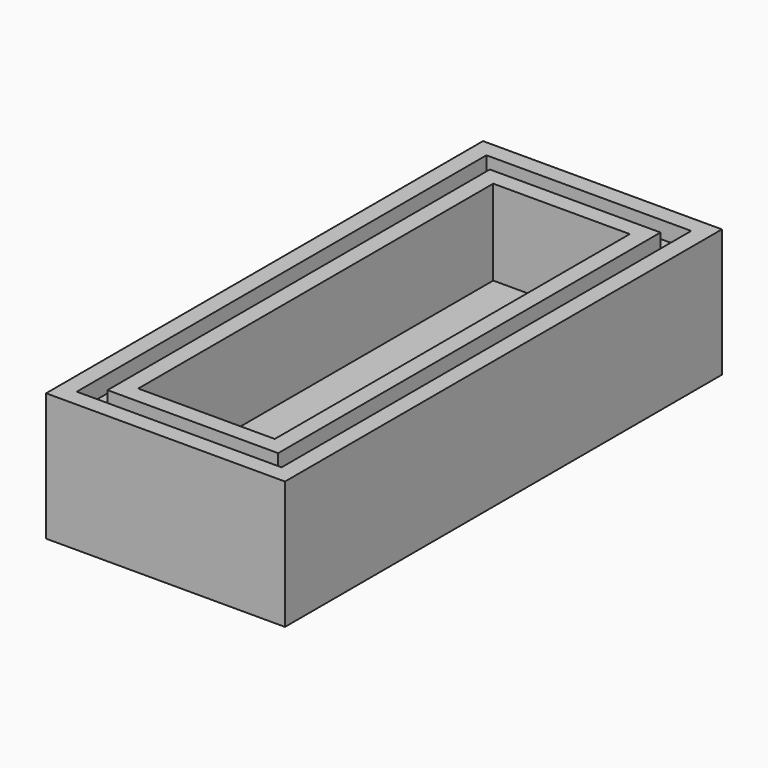
from build123d import *

# Parameters (mm, degrees)
F0_W     = 14
F0_H     = 32
F0_W_2   = 8
F0_H_2   = 26
F0_R     = 2
F1_DEPTH = 2.5
F2_DEPTH = 5
F3_W     = 12
F3_H     = 30
F3_W_2   = 10
F3_H_2   = 28
F4_DEPTH = 1


with BuildPart() as f1:
    # F0 (on Top) → F1 (new body)
    with BuildSketch(Plane.XY):
        with Locations((3.9083, -0.818711)):
            Rectangle(F0_W, F0_H)
        with Locations((3.9083, -0.818711)):
            Rectangle(F0_W_2, F0_H_2, mode=Mode.SUBTRACT)
        with Locations((3.9083, -0.818711)):
            Rectangle(F0_W_2, F0_H_2)
        with Locations((3.9083, -0.818329)):
            Circle(F0_R, mode=Mode.SUBTRACT)
    extrude(amount=-F1_DEPTH)

    # F0 (on Top) → F2 (join)
    with BuildSketch(Plane.XY):
        with Locations((3.9083, -0.818711)):
            Rectangle(F0_W, F0_H)
        with Locations((3.9083, -0.818711)):
            Rectangle(F0_W_2, F0_H_2, mode=Mode.SUBTRACT)
    extrude(amount=F2_DEPTH)

    # F3 (on face) → F4 (cut)
    with BuildSketch(Plane.XY.offset(5)):
        with Locations((3.9083, -0.818711)):
            Rectangle(F3_W, F3_H)
        with Locations((3.9083, -0.818711)):
            Rectangle(F3_W_2, F3_H_2, mode=Mode.SUBTRACT)
    extrude(amount=-F4_DEPTH, mode=Mode.SUBTRACT)


solid = f1.part
